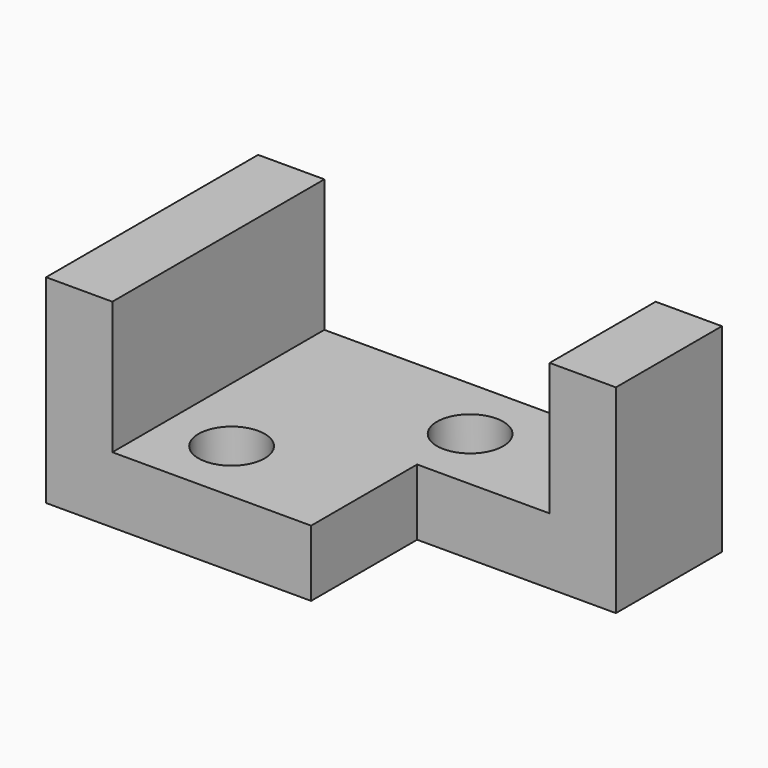
from build123d import *

# Parameters (mm, degrees)
F0_W     = 88.9
F0_H     = 38.1
F1_DEPTH = 50.8
F2_W     = 38.1
F2_H     = 25.4
F3_DEPTH = 38.1
F4_W     = 63.5
F4_H     = 25.4
F5_DEPTH = 50.8
F6_R     = 6.35
F7_DEPTH = 12.7
F8_R     = 6.35
F9_DEPTH = 12.7


with BuildPart() as f1:
    # F0 (on Front) → F1 (new body)
    with BuildSketch(Plane.XZ):
        Rectangle(F0_W, F0_H)
    extrude(amount=F1_DEPTH)

    # F2 (on face) → F3 (cut)
    with BuildSketch(Plane.XY.offset(19.05)):
        with Locations((25.4, -38.1)):
            Rectangle(F2_W, F2_H)
    extrude(amount=-F3_DEPTH, mode=Mode.SUBTRACT)

    # F4 (on face) → F5 (cut)
    with BuildSketch(Plane(origin=(0, 0, 0), x_dir=(-1, 0, 0), z_dir=(0, 1, 0))):
        with Locations((0, 6.35)):
            Rectangle(F4_W, F4_H)
    extrude(amount=-F5_DEPTH, mode=Mode.SUBTRACT)

    # F6 (on face) → F7 (cut)
    with BuildSketch(Plane.XY.offset(-6.35)):
        with Locations((-19.05, -38.1)):
            Circle(F6_R)
    extrude(amount=-F7_DEPTH, mode=Mode.SUBTRACT)

    # F8 (on face) → F9 (cut)
    with BuildSketch(Plane.XY.offset(-6.35)):
        with Locations((6.35, -12.7)):
            Circle(F8_R)
    extrude(amount=-F9_DEPTH, mode=Mode.SUBTRACT)


solid = f1.part
